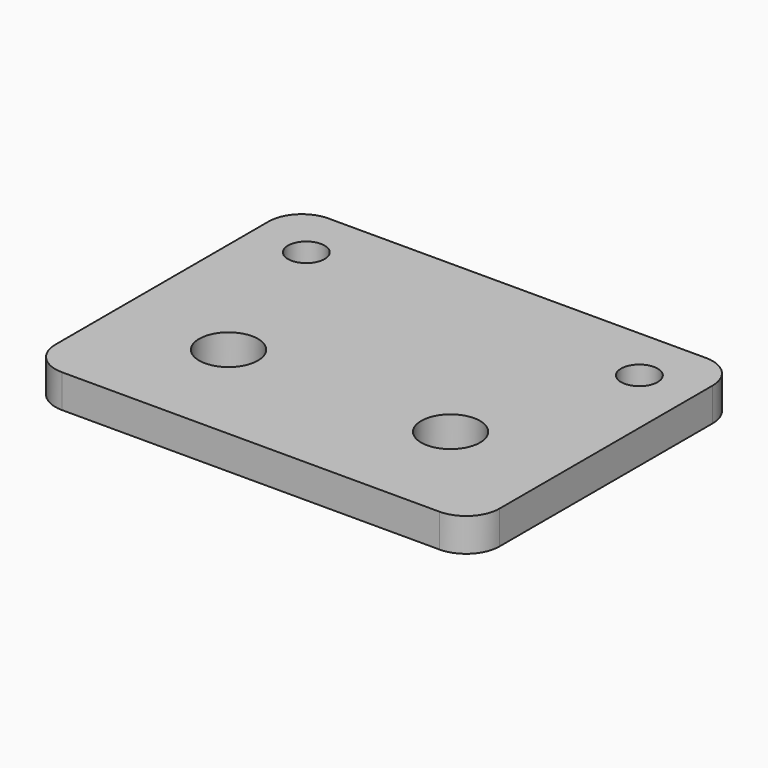
from build123d import *

# Parameters (mm, degrees)
SKETCH_W   = 40
SKETCH_H   = 30
SKETCH_R   = 2.65
SKETCH_R_2 = 1.65
PAD_DEPTH  = 3
FILLET_R   = 3


with BuildPart() as part:
    # Sketch → Pad (new body)
    with BuildSketch(Plane.XY):
        with Locations((10, 5)):
            Rectangle(SKETCH_W, SKETCH_H)
        Circle(SKETCH_R, mode=Mode.SUBTRACT)
        with Locations((20, 0)):
            Circle(SKETCH_R, mode=Mode.SUBTRACT)
        with Locations((-5, 15)):
            Circle(SKETCH_R_2, mode=Mode.SUBTRACT)
        with Locations((25, 15)):
            Circle(SKETCH_R_2, mode=Mode.SUBTRACT)
    extrude(amount=PAD_DEPTH)

    # Fillet
    fillet_edges = [part.edges().sort_by_distance(p)[0] for p in [
        (-10, -10, 1.5),
        (30, -10, 1.5),
        (-10, 20, 1.5),
        (30, 20, 1.5),
    ]]
    fillet(fillet_edges, radius=FILLET_R)


solid = part.part
